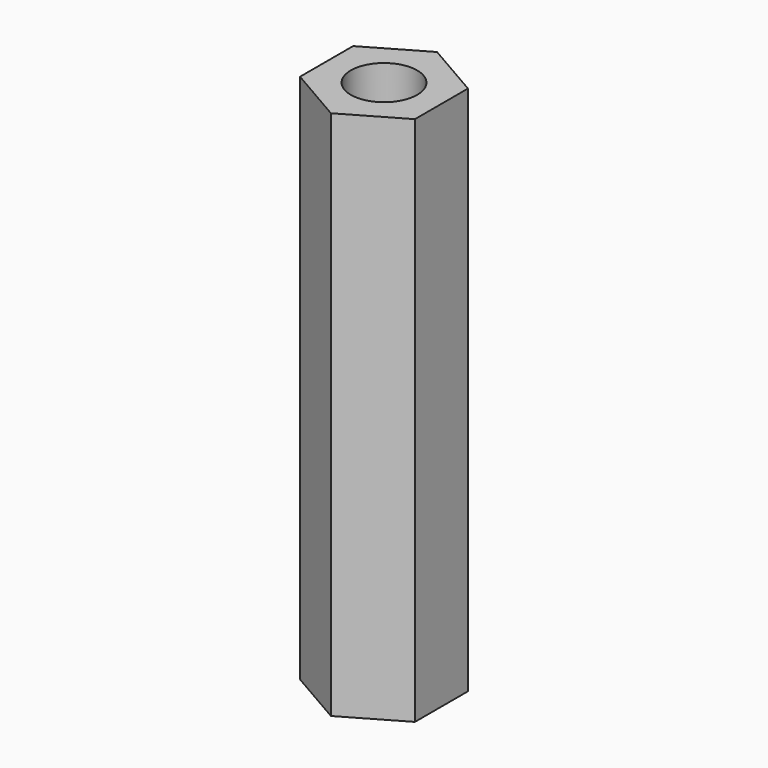
from build123d import *

# Parameters (mm, degrees)
F1_DEPTH = 10
F3_D     = 2.5
F3_DEPTH = 5
F3_TIP   = 0.7510757738


with BuildPart() as f1:
    # F0 (on Top) → F1 (new body)
    with BuildSketch(Plane.XY):
        Polygon((0, -2.5), (0, 0), (0, 2.5), (-2.1650635095, 1.25), (-2.1650635095, -1.25), align=None)
        Polygon((0, 2.5), (0, 0), (0, -2.5), (2.1650635095, -1.25), (2.1650635095, 1.25), align=None)
    extrude(amount=F1_DEPTH)

    # F3
    with Locations(Plane.XY.offset(10)):
        with Locations((0, 0)):
            Hole(F3_D / 2, depth=F3_DEPTH)
            with Locations((0, 0, -(F3_DEPTH + F3_TIP / 2))):  # 118° drill point
                Cone(0, F3_D / 2, F3_TIP, mode=Mode.SUBTRACT)

    # F4: F1 across plane


with BuildPart() as f1_1:
    add(f1.part)
    add(f1.part.mirror(Plane.XY))


solid = f1_1.part
